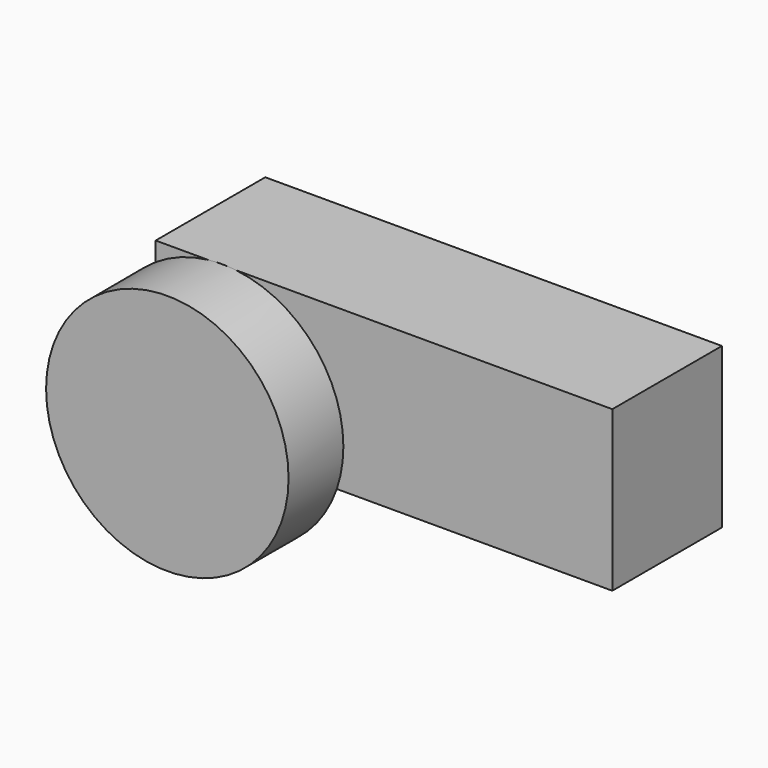
from build123d import *

# Parameters (mm, degrees)
F0_W     = 1000
F0_H     = 300
F1_DEPTH = 350
F2_R     = 265.5
F2_R_2   = 190.5
F3_DEPTH = 150


with BuildPart() as f1:
    # F0 (on Top) → F1 (new body)
    with BuildSketch(Plane.XY):
        Rectangle(F0_W, F0_H)
    extrude(amount=F1_DEPTH)

    # F2 (on face) → F3 (join)
    with BuildSketch(Plane.XZ.offset(150)):
        with Locations((-354.456395, 86.301595)):
            Circle(F2_R)
        with Locations((-354.456395, 86.301595)):
            Circle(F2_R_2, mode=Mode.SUBTRACT)
        with BuildLine():
            Line((-500, 0), (-500, 209.213389))
            ThreePointArc((-500, 209.213389), (-459.765558, -72.444209), (-184.626231, 0))
            Line((-184.626231, 0), (-500, 0))
        make_face()
        with BuildLine():
            ThreePointArc((-184.626231, 0), (-169.195908, 41.930412), (-163.956395, 86.301595))
            ThreePointArc((-163.956395, 86.301595), (-289.018664, 265.209821), (-500, 209.213389))
            Line((-500, 209.213389), (-500, 0))
            Line((-500, 0), (-184.626231, 0))
        make_face()
    extrude(amount=F3_DEPTH)


solid = f1.part
